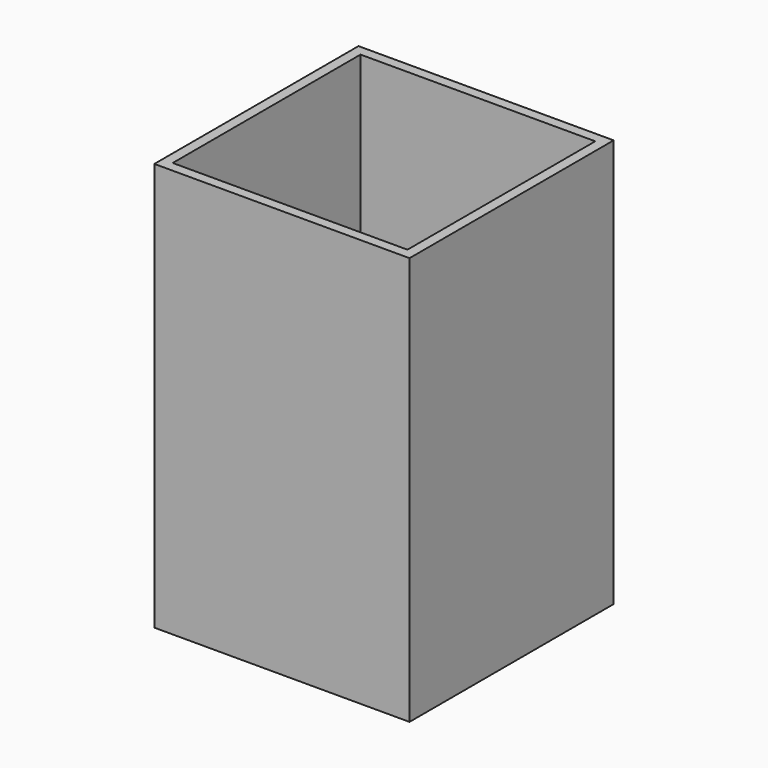
from build123d import *

# Parameters (mm, degrees)
BOX001_W     = 46
BOX001_H     = 46
BOX001_DEPTH = 78
BOX_W        = 50
BOX_H        = 50
BOX_DEPTH    = 80


with BuildPart() as cubo001:
    # Box001 → Box001 (new body)
    with BuildSketch(Plane(origin=(2, 2, 2), x_dir=(1, 0, 0), z_dir=(0, 0, 1))):
        with Locations((23, 23)):
            Rectangle(BOX001_W, BOX001_H)
    extrude(amount=BOX001_DEPTH)


with BuildPart() as cut:
    # Box → Box (new body)
    with BuildSketch(Plane.XY):
        with Locations((25, 25)):
            Rectangle(BOX_W, BOX_H)
    extrude(amount=BOX_DEPTH)

    # Cut: cut Cubo001
    add(cubo001.part, mode=Mode.SUBTRACT)


solid = cut.part
